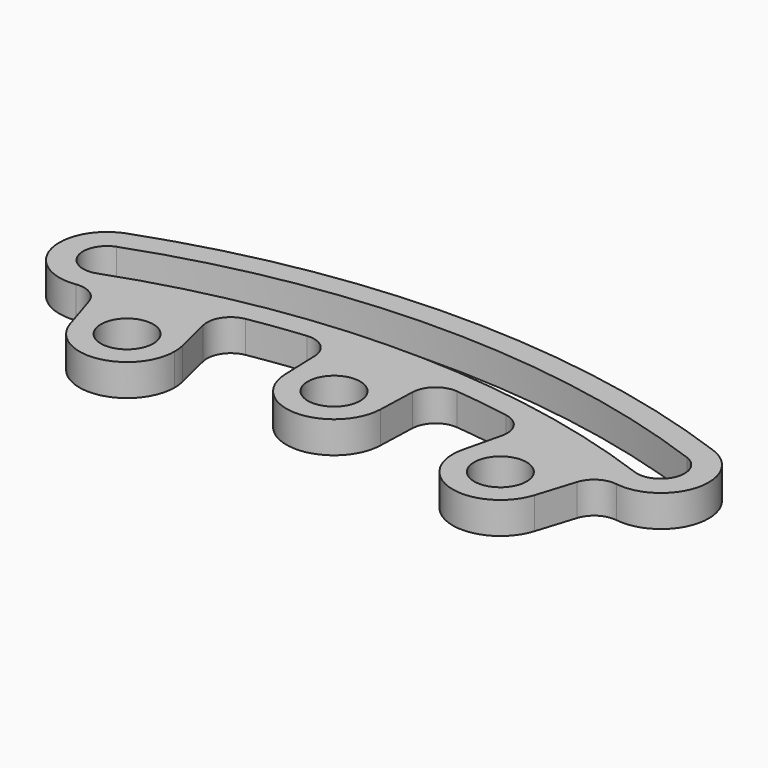
from build123d import *

# Parameters (mm, degrees)
F0_R     = 3.3
F1_DEPTH = 4
F2_D     = 6.6


with BuildPart() as f1:
    # F0 (on Top) → F1 (new body)
    with BuildSketch(Plane.XY):
        with BuildLine():
            ThreePointArc((34.0567992704, 89.8965680339), (40.7519566994, 94.3854046152), (36.9381754792, 101.4868030449))
            ThreePointArc((36.9381754792, 101.4868030449), (0, 108), (-36.9381754792, 101.4868030449))
            ThreePointArc((-36.9381754792, 101.4868030449), (-40.7070213733, 94.393880651), (-34.0444122932, 89.9079707427))
            ThreePointArc((-34.0444122932, 89.9079707427), (-32.0231312915, 89.4750579815), (-30.7617113386, 87.8374346888))
            Line((-30.7617113386, 87.8374346888), (-29.240736677, 82.9998754131))
            ThreePointArc((-29.240736677, 82.9998754131), (-25.1204073514, 90.5812626016), (-17.6838927225, 86.2048718935))
            Line((-17.6838927225, 86.2048718935), (-18.8216514871, 90.9271435562))
            ThreePointArc((-18.8216514871, 90.9271435562), (-18.4124399871, 93.2770471476), (-16.4181773429, 94.585640838))
            ThreePointArc((-16.4181773429, 94.585640838), (-12.9456893063, 95.1231261491), (-9.455857384, 95.533170999))
            ThreePointArc((-9.455857384, 95.533170999), (-7.1844187157, 94.8051137786), (-6.1621056327, 92.6500321326))
            Line((-6.1621056327, 92.6500321326), (-5.9965124161, 87.7954545455))
            ThreePointArc((-5.9965124161, 87.7954545455), (-0.1022875924, 93.9991280407), (6, 88))
            ThreePointArc((6, 88), (5.9991280407, 87.8977124076), (5.9965124161, 87.7954545455))
            Line((5.9965124161, 87.7954545455), (6.1621056327, 92.6500321326))
            ThreePointArc((6.1621056327, 92.6500321326), (7.1844187157, 94.8051137786), (9.455857384, 95.533170999))
            ThreePointArc((9.455857384, 95.533170999), (12.9456893063, 95.1231261491), (16.4181773429, 94.585640838))
            ThreePointArc((16.4181773429, 94.585640838), (18.4124399871, 93.2770471476), (18.8216514871, 90.9271435562))
            Line((18.8216514871, 90.9271435562), (17.6838927225, 86.2048718935))
            ThreePointArc((17.6838927225, 86.2048718935), (24.224611805, 90.7576048489), (29.5169770949, 84.7994798824))
            ThreePointArc((29.5169770949, 84.7994798824), (29.4475149075, 83.8891385982), (29.240736677, 82.9998754131))
            Line((29.240736677, 82.9998754131), (30.7588194113, 87.8282367253))
            ThreePointArc((30.7588194113, 87.8282367253), (32.026773101, 89.4699693779), (34.0567992704, 89.8965680339))
        make_face()
        with BuildLine():
            ThreePointArc((-35.9121150493, 98.6677251825), (-1e-10, 105), (35.9121150492, 98.6677251825))
            ThreePointArc((35.9121150492, 98.6677251825), (37.7051324816, 94.8225868902), (33.8599941892, 93.0295694578))
            ThreePointArc((33.8599941892, 93.0295694578), (-1e-10, 99), (-33.8599941894, 93.0295694578))
            ThreePointArc((-33.8599941892, 93.0295694574), (-37.7051324816, 94.8225868898), (-35.9121150492, 98.6677251821))
        make_face(mode=Mode.SUBTRACT)
        with BuildLine():
            ThreePointArc((-5.9965124161, 87.7954545455), (0, 82), (5.9965124161, 87.7954545455))
            ThreePointArc((5.9965124161, 87.7954545455), (5.9991280407, 87.8977124076), (6, 88))
            ThreePointArc((6, 88), (-0.1022875924, 93.9991280407), (-5.9965124161, 87.7954545455))
        make_face()
        with Locations((0, 88)):
            Circle(F0_R, mode=Mode.SUBTRACT)
        with BuildLine():
            ThreePointArc((17.6838927225, 86.2048718935), (21.9135468384, 79.0176971631), (29.240736677, 82.9998754131))
            ThreePointArc((29.240736677, 82.9998754131), (29.4475149075, 83.8891385982), (29.5169770949, 84.7994798824))
            ThreePointArc((29.5169770949, 84.7994798824), (24.224611805, 90.7576048489), (17.6838927225, 86.2048718935))
        make_face()
        with Locations((23.5169770949, 84.7994798824)):
            Circle(F0_R, mode=Mode.SUBTRACT)
        with BuildLine():
            ThreePointArc((-17.6838927225, 86.2048718935), (-25.1204073514, 90.5812626016), (-29.240736677, 82.9998754131))
            ThreePointArc((-29.240736677, 82.9998754131), (-22.6066358108, 78.8689420698), (-17.5169770949, 84.7994798824))
            ThreePointArc((-17.5169770949, 84.7994798824), (-17.5588521283, 85.5071145925), (-17.6838927225, 86.2048718935))
        make_face()
        with Locations((-23.5169770949, 84.7994798824)):
            Circle(F0_R, mode=Mode.SUBTRACT)
        with Locations((0, 88)):
            Circle(F0_R)
        with Locations((23.5169770949, 84.7994798824)):
            Circle(F0_R)
        with Locations((-23.5169770949, 84.7994798824)):
            Circle(F0_R)
    extrude(amount=F1_DEPTH)

    # F2 (through all)
    with Locations(Plane(origin=(0, 0, 0), x_dir=(1, 0, 0), z_dir=(0, 0, -1))):
        with Locations((-23.5169770949, -84.7994798824), (0, -88), (23.5169770949, -84.7994798824)):
            Hole(F2_D / 2)


solid = f1.part
